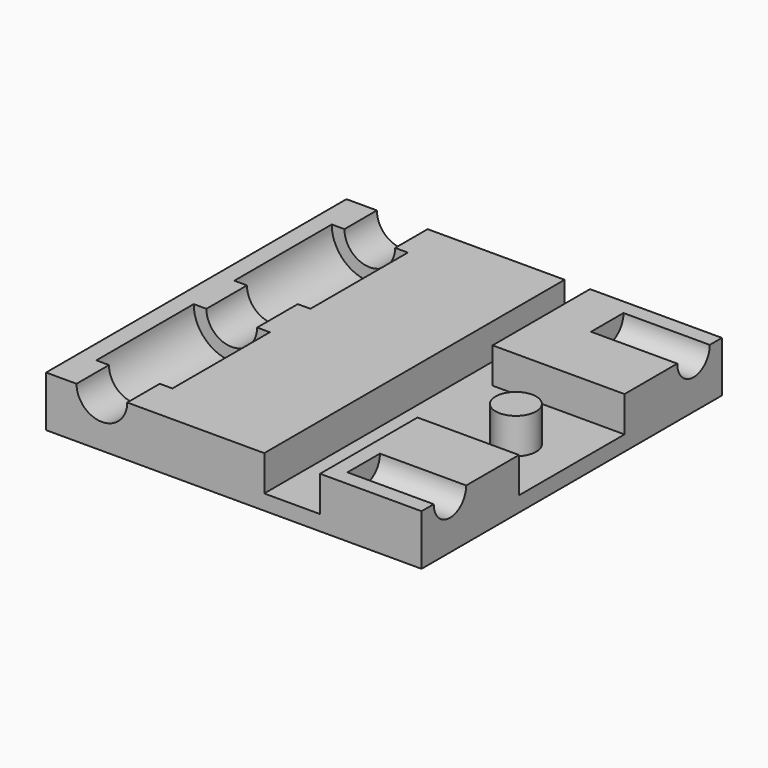
from build123d import *

# Parameters (mm, degrees)
F0_R     = 4
F0_W     = 11
F0_H     = 74
F0_W_2   = 17
F0_H_2   = 4
F1_DEPTH = 10
F5_DEPTH = 7


with BuildPart() as f1:
    # F0 (on Top) → F1 (new body)
    with BuildSketch(Plane.XY):
        Polygon((-47, -37), (-20, -37), (-20, 13), (-20, 37), (-47, 37), (-47, 29), (-44.5, 29), (-44.5, 5), (-47, 5), (-47, 0), (-47, -5), (-44.5, -5), (-44.5, -29), (-47, -29), align=None)
        Polygon((-9, -37), (-9, -13), (11, -13), (11, 13), (-15, 13), (-15, 37), (-20, 37), (-20, 13), (-20, -37), align=None)
        Circle(F0_R, mode=Mode.SUBTRACT)
        with Locations((-57.5, 0)):
            Rectangle(F0_W, F0_H)
        Polygon((-15, 13), (11, 13), (11, 30), (-6, 30), (-6, 34), (11, 34), (11, 37), (-15, 37), align=None)
        Polygon((-52, -37), (-47, -37), (-47, -29), (-44.5, -29), (-44.5, -5), (-47, -5), (-47, 0), (-47, 5), (-44.5, 5), (-44.5, 29), (-47, 29), (-47, 37), (-52, 37), align=None)
        Polygon((11, -13), (-9, -13), (-9, -37), (11, -37), (11, -34), (-6, -34), (-6, -30), (11, -30), align=None)
        with Locations((2.5, 32)):
            Rectangle(F0_W_2, F0_H_2)
        with Locations((2.5, -32)):
            Rectangle(F0_W_2, F0_H_2)
        Circle(F0_R)
    extrude(amount=-F1_DEPTH)

    # F0 (on Top) → F2 (revolve, cut)
    with BuildSketch(Plane.XY):
        Polygon((-52, -37), (-47, -37), (-47, -29), (-44.5, -29), (-44.5, -5), (-47, -5), (-47, 0), (-47, 5), (-44.5, 5), (-44.5, 29), (-47, 29), (-47, 37), (-52, 37), align=None)
    revolve(axis=Axis((-52, 0, 0), (0, -1, 0)), mode=Mode.SUBTRACT)

    # F0 (on Top) → F3 (revolve, cut)
    with BuildSketch(Plane.XY):
        with Locations((2.5, 32)):
            Rectangle(F0_W_2, F0_H_2)
    revolve(axis=Axis((2.5, 30, 0), (1, 0, 0)), mode=Mode.SUBTRACT)

    # F0 (on Top) → F4 (revolve, cut)
    with BuildSketch(Plane.XY):
        with Locations((2.5, -32)):
            Rectangle(F0_W_2, F0_H_2)
    revolve(axis=Axis((2.5, -30, 0), (1, 0, 0)), mode=Mode.SUBTRACT)

    # F0 (on Top) → F5 (cut)
    with BuildSketch(Plane.XY):
        Polygon((-9, -37), (-9, -13), (11, -13), (11, 13), (-15, 13), (-15, 37), (-20, 37), (-20, 13), (-20, -37), align=None)
        Circle(F0_R, mode=Mode.SUBTRACT)
    extrude(amount=-F5_DEPTH, mode=Mode.SUBTRACT)


solid = f1.part
